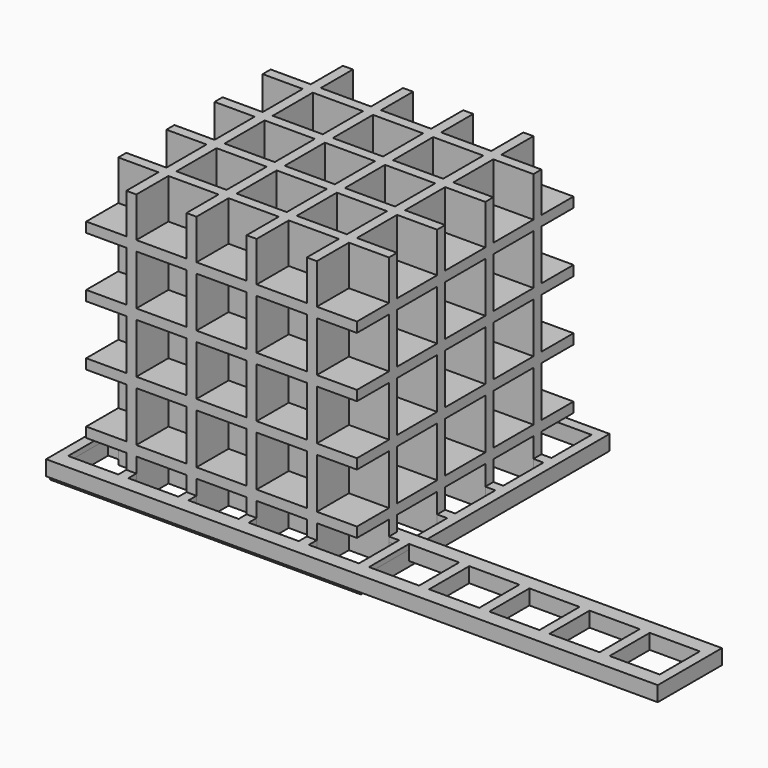
from build123d import *

# Parameters (mm, degrees)
BOX_W            = 10
BOX_H            = 10
BOX_DEPTH        = 10
ARRAY_X_COUNT    = 10
ARRAY_X_PITCH    = 12
BOX001_W         = 122
BOX001_H         = 16
BOX001_DEPTH     = 3
BOX002_W         = 10
BOX002_H         = 10
BOX002_DEPTH     = 10
ARRAY001_X_COUNT = 5
ARRAY001_X_PITCH = 12
ARRAY001_Y_COUNT = 5
ARRAY001_Y_PITCH = 12
BOX003_W         = 62
BOX003_H         = 62
BOX003_DEPTH     = 3
BOX004_W         = 10
BOX004_H         = 10
BOX004_DEPTH     = 10
ARRAY002_X_COUNT = 5
ARRAY002_X_PITCH = 12
ARRAY002_Y_COUNT = 5
ARRAY002_Y_PITCH = 12
ARRAY002_Z_COUNT = 5
ARRAY002_Z_PITCH = 12
BOX005_W         = 54
BOX005_H         = 54
BOX005_DEPTH     = 54


with BuildPart() as array:
    # Box → Box (new body)
    with BuildSketch(Plane.XY):
        with Locations((5, 5)):
            Rectangle(BOX_W, BOX_H)
    extrude(amount=BOX_DEPTH)

    # Array X: Array ×10


with BuildPart() as array_1:
    add(array.part)
    with Locations(*[(i * ARRAY_X_PITCH, 0, 0) for i in range(1, ARRAY_X_COUNT)]):
        add(array.part)


with BuildPart() as obj1:
    # Box001 → Box001 (new body)
    with BuildSketch(Plane(origin=(-2, -3, 4), x_dir=(1, 0, 0), z_dir=(0, 0, 1))):
        with Locations((61, 8)):
            Rectangle(BOX001_W, BOX001_H)
    extrude(amount=BOX001_DEPTH)

    # Cut: cut Array
    add(array_1.part, mode=Mode.SUBTRACT)


with BuildPart() as array001:
    # Box002 → Box002 (new body)
    with BuildSketch(Plane.XY):
        with Locations((5, 5)):
            Rectangle(BOX002_W, BOX002_H)
    extrude(amount=BOX002_DEPTH)

    # Array001 X: Array001 ×5


with BuildPart() as array001_1:
    add(array001.part)
    with Locations(*[(i * ARRAY001_X_PITCH, 0, 0) for i in range(1, ARRAY001_X_COUNT)]):
        add(array001.part)

    # Array001 Y: Array001 ×5


with BuildPart() as array001_2:
    add(array001_1.part)
    with Locations(*[(0, i * ARRAY001_Y_PITCH, 0) for i in range(1, ARRAY001_Y_COUNT)]):
        add(array001_1.part)


with BuildPart() as obj2:
    # Box003 → Box003 (new body)
    with BuildSketch(Plane(origin=(-2, -2, 3), x_dir=(1, 0, 0), z_dir=(0, 0, 1))):
        with Locations((31, 31)):
            Rectangle(BOX003_W, BOX003_H)
    extrude(amount=BOX003_DEPTH)

    # Cut001: cut Array001
    add(array001_2.part, mode=Mode.SUBTRACT)


with BuildPart() as array002:
    # Box004 → Box004 (new body)
    with BuildSketch(Plane.XY):
        with Locations((5, 5)):
            Rectangle(BOX004_W, BOX004_H)
    extrude(amount=BOX004_DEPTH)

    # Array002 X: Array002 ×5


with BuildPart() as array002_1:
    add(array002.part)
    with Locations(*[(i * ARRAY002_X_PITCH, 0, 0) for i in range(1, ARRAY002_X_COUNT)]):
        add(array002.part)

    # Array002 Y: Array002 ×5


with BuildPart() as array002_2:
    add(array002_1.part)
    with Locations(*[(0, i * ARRAY002_Y_PITCH, 0) for i in range(1, ARRAY002_Y_COUNT)]):
        add(array002_1.part)

    # Array002 Z: Array002 ×5


with BuildPart() as array002_3:
    add(array002_2.part)
    with Locations(*[(0, 0, i * ARRAY002_Z_PITCH) for i in range(1, ARRAY002_Z_COUNT)]):
        add(array002_2.part)


with BuildPart() as obj3:
    # Box005 → Box005 (new body)
    with BuildSketch(Plane(origin=(2, 2, 2), x_dir=(1, 0, 0), z_dir=(0, 0, 1))):
        with Locations((27, 27)):
            Rectangle(BOX005_W, BOX005_H)
    extrude(amount=BOX005_DEPTH)

    # Cut002: cut Array002
    add(array002_3.part, mode=Mode.SUBTRACT)


solid = Compound([obj1.part, obj2.part, obj3.part])
